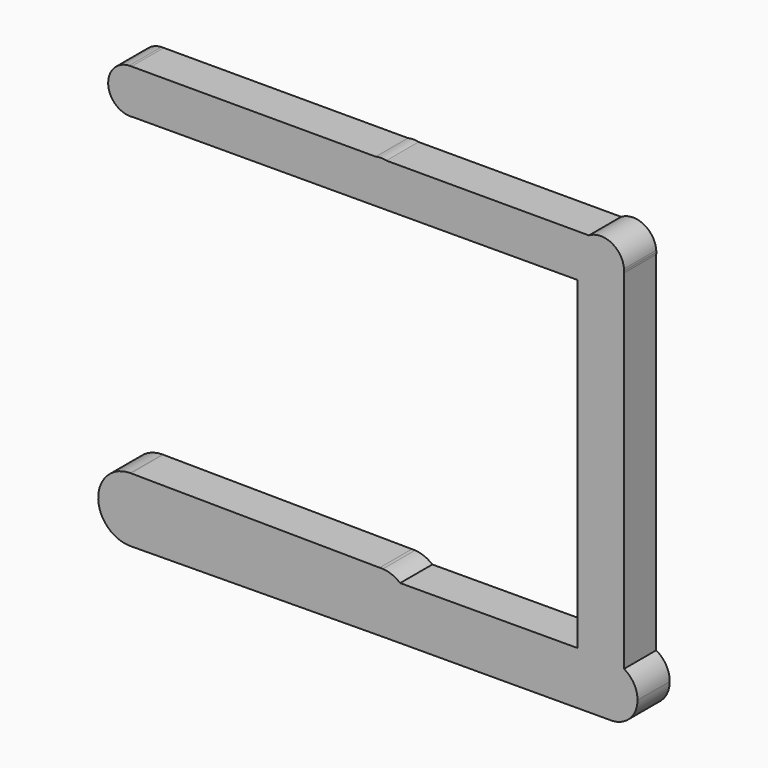
from build123d import *

# Parameters (mm, degrees)
F1_DEPTH = 10


with BuildPart() as f1:
    # F0 (on Front) → F1 (new body)
    with BuildSketch(Plane.XZ):
        with BuildLine():
            Line((-41.2459699212, 49.2324725474), (-41.8065555243, 49.2324725474))
            ThreePointArc((-41.8065555243, 49.2324725474), (-47.0306271881, 43.9337496798), (-42.2094407409, 38.2659855689))
            Line((-42.2094407409, 38.2659855689), (-40.8129731674, 38.2698337294))
            ThreePointArc((-40.8129731674, 38.2698337294), (-37.3869527055, 40.0976581171), (-36.018184972, 43.7315311321))
            ThreePointArc((-36.018184972, 43.7315311321), (-37.5335947518, 47.5259379346), (-41.2459699212, 49.2324725474))
        make_face()
        with BuildLine():
            ThreePointArc((-41.2459699212, 49.2324725474), (-41.5262627227, 49.2396088829), (-41.8065555243, 49.2324725474))
            Line((-41.8065555243, 49.2324725474), (-41.2459699212, 49.2324725474))
        make_face()
        with BuildLine():
            Line((-40.8129731674, 38.2698337294), (-42.2094407409, 38.2659855689))
            ThreePointArc((-42.2094407409, 38.2659855689), (-41.5110845063, 38.2234742941), (-40.8129731674, 38.2698337294))
        make_face()
        with BuildLine():
            Line((19.3958776676, 49.2324725474), (-41.2459699212, 49.2324725474))
            ThreePointArc((-41.2459699212, 49.2324725474), (-37.5335947518, 47.5259379346), (-36.018184972, 43.7315311321))
            ThreePointArc((-36.018184972, 43.7315311321), (-37.3869527055, 40.0976581171), (-40.8129731674, 38.2698337294))
            Line((-40.8129731674, 38.2698337294), (20.3249844191, 38.4383078715))
            Line((20.3249844191, 38.4383078715), (20.7272791052, 38.4394164505))
            ThreePointArc((20.7272791052, 38.4394164505), (15.2765817998, 43.2456806036), (19.3958776676, 49.2324725474))
        make_face()
        with BuildLine():
            ThreePointArc((22.0284968869, 49.2324725474), (20.7121872773, 49.3930079541), (19.3958776676, 49.2324725474))
            Line((19.3958776676, 49.2324725474), (20.0357145698, 49.2324725474))
            Line((20.0357145698, 49.2324725474), (22.0284968869, 49.2324725474))
        make_face()
        with BuildLine():
            Line((20.0357145698, 49.2324725474), (19.3958776676, 49.2324725474))
            ThreePointArc((19.3958776676, 49.2324725474), (15.2765817998, 43.2456806036), (20.7272791052, 38.4394164505))
            ThreePointArc((20.7272791052, 38.4394164505), (24.5902061403, 40.0488544865), (26.1889934258, 43.9162018055))
            ThreePointArc((26.1889934258, 43.9162018055), (25.0252243831, 47.2915708983), (22.0284968869, 49.2324725474))
            Line((22.0284968869, 49.2324725474), (20.0357145698, 49.2324725474))
        make_face()
        with BuildLine():
            Line((72.3443325591, 49.2324725474), (22.0284968869, 49.2324725474))
            ThreePointArc((22.0284968869, 49.2324725474), (25.0252243831, 47.2915708983), (26.1889934258, 43.9162018055))
            ThreePointArc((26.1889934258, 43.9162018055), (24.5902061403, 40.0488544865), (20.7272791052, 38.4394164505))
            Line((20.7272791052, 38.4394164505), (69.5565042771, 38.5739721692))
            Line((69.5565042771, 38.5739721692), (69.5565042771, 44.2997200327))
            ThreePointArc((69.5565042771, 44.2997200327), (70.3016811147, 47.1327411189), (72.3443325591, 49.2324725474))
        make_face()
        with BuildLine():
            ThreePointArc((81.0534632591, 44.7649656204), (77.942418688, 49.4228865599), (72.3443325591, 49.2324725474))
            ThreePointArc((72.3443325591, 49.2324725474), (70.3016811147, 47.1327411189), (69.5565042771, 44.2997200327))
            ThreePointArc((69.5565042771, 44.2997200327), (70.993741542, 40.4937686642), (74.5879509602, 38.58783702))
            ThreePointArc((74.5879509602, 38.58783702), (78.9425359244, 39.8287087647), (81.0534632591, 43.8344744449))
            Line((81.0534632591, 43.8344744449), (81.0534632591, 44.7649656204))
        make_face()
        with BuildLine():
            Line((69.5565042771, 44.2997200327), (69.5565042771, 38.5739721692))
            Line((69.5565042771, 38.5739721692), (74.5879509602, 38.58783702))
            ThreePointArc((74.5879509602, 38.58783702), (70.993741542, 40.4937686642), (69.5565042771, 44.2997200327))
        make_face()
        with BuildLine():
            Line((74.5879509602, 38.58783702), (69.5565042771, 38.5739721692))
            Line((69.5565042771, 38.5739721692), (69.5565042771, -41.8843869054))
            Line((69.5565042771, -41.8843869054), (77.41492293, -41.8627319403))
            ThreePointArc((77.41492293, -41.8627319403), (77.8187709933, -41.8492012292), (78.2226874942, -41.8605060327))
            ThreePointArc((78.2226874942, -41.8605060327), (79.6851867949, -42.1143399773), (81.0534632591, -42.689801004))
            Line((81.0534632591, -42.689801004), (81.0534632591, 43.8344744449))
            ThreePointArc((81.0534632591, 43.8344744449), (78.9425359244, 39.8287087647), (74.5879509602, 38.58783702))
        make_face()
        with BuildLine():
            ThreePointArc((81.0722902774, 44.2997200327), (81.0675815975, 44.5325332161), (81.0534632591, 44.7649656204))
            Line((81.0534632591, 44.7649656204), (81.0534632591, 43.8344744449))
            ThreePointArc((81.0534632591, 43.8344744449), (81.0675815975, 44.0669068492), (81.0722902774, 44.2997200327))
        make_face()
        with BuildLine():
            Line((77.41492293, -41.8627319403), (69.5565042771, -41.8843869054))
            Line((69.5565042771, -41.8843869054), (25.4644663722, -42.005888646))
            ThreePointArc((25.4644663722, -42.005888646), (27.4470484848, -44.5675644173), (28.1525257136, -47.7290698293))
            ThreePointArc((28.1525257136, -47.7290698293), (26.1341587579, -52.8227999815), (21.1746559331, -55.1515815863))
            Line((21.1746559331, -55.1515815863), (77.680068251, -54.9958730667))
            ThreePointArc((77.680068251, -54.9958730667), (71.2639429971, -48.556161307), (77.41492293, -41.8627319403))
        make_face()
        with BuildLine():
            Line((78.2226874942, -41.8605060327), (77.41492293, -41.8627319403))
            ThreePointArc((77.41492293, -41.8627319403), (71.2639429971, -48.556161307), (77.680068251, -54.9958730667))
            Line((77.680068251, -54.9958730667), (78.0299260429, -54.9949089849))
            ThreePointArc((78.0299260429, -54.9949089849), (82.5533635979, -53.0034225515), (84.4111709763, -48.4234599673))
            ThreePointArc((84.4111709763, -48.4234599673), (83.5099767883, -45.1012225352), (81.0534632591, -42.689801004))
            ThreePointArc((81.0534632591, -42.689801004), (79.6851867949, -42.1143399773), (78.2226874942, -41.8605060327))
        make_face()
        with BuildLine():
            ThreePointArc((28.1525257136, -47.7290698293), (27.4470484848, -44.5675644173), (25.4644663722, -42.005888646))
            ThreePointArc((25.4644663722, -42.005888646), (23.4623029685, -40.8181243584), (21.1910051796, -40.3075867475))
            Line((21.1910051796, -40.3075867475), (20.3734561107, -40.3002775684))
            ThreePointArc((20.3734561107, -40.3002775684), (13.2791728637, -47.7368050161), (20.3889108114, -55.1585582849))
            Line((20.3889108114, -55.1585582849), (21.1746559331, -55.1515815863))
            ThreePointArc((21.1746559331, -55.1515815863), (26.1341587579, -52.8227999815), (28.1525257136, -47.7290698293))
        make_face()
        with BuildLine():
            Line((78.0299260429, -54.9949089849), (77.680068251, -54.9958730667))
            ThreePointArc((77.680068251, -54.9958730667), (77.8550035612, -54.9977187055), (78.0299260429, -54.9949089849))
        make_face()
        with BuildLine():
            Line((20.3734561107, -40.3002775684), (21.1910051796, -40.3075867475))
            ThreePointArc((21.1910051796, -40.3075867475), (20.7823311667, -40.2926885818), (20.3734561107, -40.3002775684))
        make_face()
        with BuildLine():
            ThreePointArc((20.3889108114, -55.1585582849), (20.7818755833, -55.1654551359), (21.1746559331, -55.1515815863))
            Line((21.1746559331, -55.1515815863), (20.3889108114, -55.1585582849))
        make_face()
        with BuildLine():
            ThreePointArc((20.3889108114, -55.1585582849), (13.2791728637, -47.7368050161), (20.3734561107, -40.3002775684))
            Line((20.3734561107, -40.3002775684), (-41.3835467647, -39.7481480292))
            ThreePointArc((-41.3835467647, -39.7481480292), (-35.8317624102, -42.1354889714), (-33.5440649914, -47.7290698293))
            ThreePointArc((-33.5440649914, -47.7290698293), (-34.1207054737, -50.7078619424), (-35.7673129619, -53.2562733061))
            ThreePointArc((-35.7673129619, -53.2562733061), (-38.2588759048, -55.0119033441), (-41.226844648, -55.7056498884))
            Line((-41.226844648, -55.7056498884), (20.3889108114, -55.1585582849))
        make_face()
        with BuildLine():
            Line((-41.5262627227, -39.7468720979), (-41.3835467647, -39.7481480292))
            ThreePointArc((-41.3835467647, -39.7481480292), (-41.454901892, -39.7471910871), (-41.5262627227, -39.7468720979))
        make_face()
        with BuildLine():
            ThreePointArc((-33.5440649914, -47.7290698293), (-35.8317624102, -42.1354889714), (-41.3835467647, -39.7481480292))
            Line((-41.3835467647, -39.7481480292), (-41.5262627227, -39.7468720979))
            ThreePointArc((-41.5262627227, -39.7468720979), (-49.5080707965, -47.6501997041), (-41.6839952729, -55.7097089682))
            Line((-41.6839952729, -55.7097089682), (-35.7673129619, -53.2562733061))
            ThreePointArc((-35.7673129619, -53.2562733061), (-34.1207054737, -50.7078619424), (-33.5440649914, -47.7290698293))
        make_face()
        with BuildLine():
            Line((-41.6839952729, -55.7097089682), (-41.226844648, -55.7056498884))
            ThreePointArc((-41.226844648, -55.7056498884), (-38.2588759048, -55.0119033441), (-35.7673129619, -53.2562733061))
            Line((-35.7673129619, -53.2562733061), (-41.6839952729, -55.7097089682))
        make_face()
        with BuildLine():
            ThreePointArc((-41.6839952729, -55.7097089682), (-41.4553908947, -55.7109529283), (-41.226844648, -55.7056498884))
            Line((-41.226844648, -55.7056498884), (-41.6839952729, -55.7097089682))
        make_face()
    extrude(amount=F1_DEPTH)


solid = f1.part
